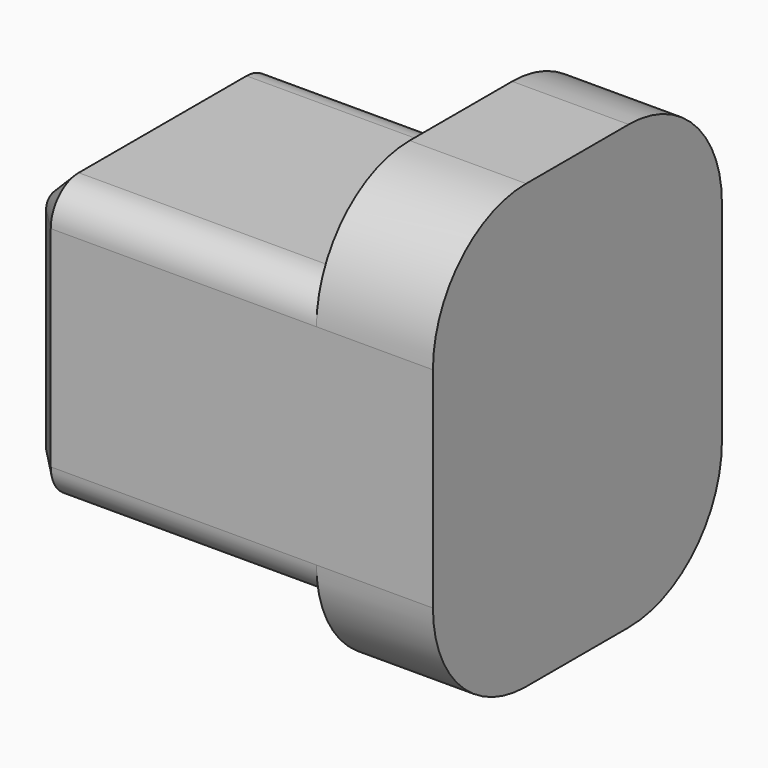
from build123d import *

# Parameters (mm, degrees)
PAD013_DEPTH = 5.7
PAD014_DEPTH = 2.5
PAD015_DEPTH = 0.5
PAD015_TAPER = 45


with BuildPart() as part:
    # Sketch028 (on Face271 of Binder002) → Pad013 (new body)
    with BuildSketch(Plane(origin=(0, 0, 0), x_dir=(0, -1, 0), z_dir=(-1, 0, 0))):
        with BuildLine():
            Line((-44.85, 89.1), (-44.85, 84.6))
            ThreePointArc((-44.85, 84.6), (-44.63033, 84.06967), (-44.1, 83.85))
            Line((-44.1, 83.85), (-39.6, 83.85))
            ThreePointArc((-39.6, 83.85), (-39.06967, 84.06967), (-38.85, 84.6))
            Line((-38.85, 84.6), (-38.85, 89.1))
            ThreePointArc((-38.85, 89.1), (-39.06967, 89.63033), (-39.6, 89.85))
            Line((-39.6, 89.85), (-44.1, 89.85))
            ThreePointArc((-44.1, 89.85), (-44.63033, 89.63033), (-44.85, 89.1))
        make_face()
    extrude(amount=-PAD013_DEPTH)

    # Sketch029 (on Face4 of Pad013) → Pad014 (join)
    with BuildSketch(Plane.YZ.offset(5.7)):
        with BuildLine():
            Line((38.85, 89.1), (38.85, 84.6))
            ThreePointArc((38.85, 84.6), (39.582233, 82.832233), (41.35, 82.1))
            Line((41.35, 82.1), (44.1, 82.1))
            ThreePointArc((44.1, 82.1), (45.867767, 82.832233), (46.6, 84.6))
            Line((46.6, 84.6), (46.6, 89.1))
            ThreePointArc((46.6, 89.1), (45.867767, 90.867767), (44.1, 91.6))
            Line((44.1, 91.6), (41.35, 91.6))
            ThreePointArc((41.35, 91.6), (39.582233, 90.867767), (38.85, 89.1))
        make_face()
    extrude(amount=PAD014_DEPTH)

    # Sketch028 (on Face271 of Binder002) → Pad015 (join)
    with BuildSketch(Plane(origin=(0, 0, 0), x_dir=(0, -1, 0), z_dir=(-1, 0, 0))):
        with BuildLine():
            Line((-44.85, 89.1), (-44.85, 84.6))
            ThreePointArc((-44.85, 84.6), (-44.63033, 84.06967), (-44.1, 83.85))
            Line((-44.1, 83.85), (-39.6, 83.85))
            ThreePointArc((-39.6, 83.85), (-39.06967, 84.06967), (-38.85, 84.6))
            Line((-38.85, 84.6), (-38.85, 89.1))
            ThreePointArc((-38.85, 89.1), (-39.06967, 89.63033), (-39.6, 89.85))
            Line((-39.6, 89.85), (-44.1, 89.85))
            ThreePointArc((-44.1, 89.85), (-44.63033, 89.63033), (-44.85, 89.1))
        make_face()
    extrude(amount=PAD015_DEPTH, taper=PAD015_TAPER)


solid = part.part
